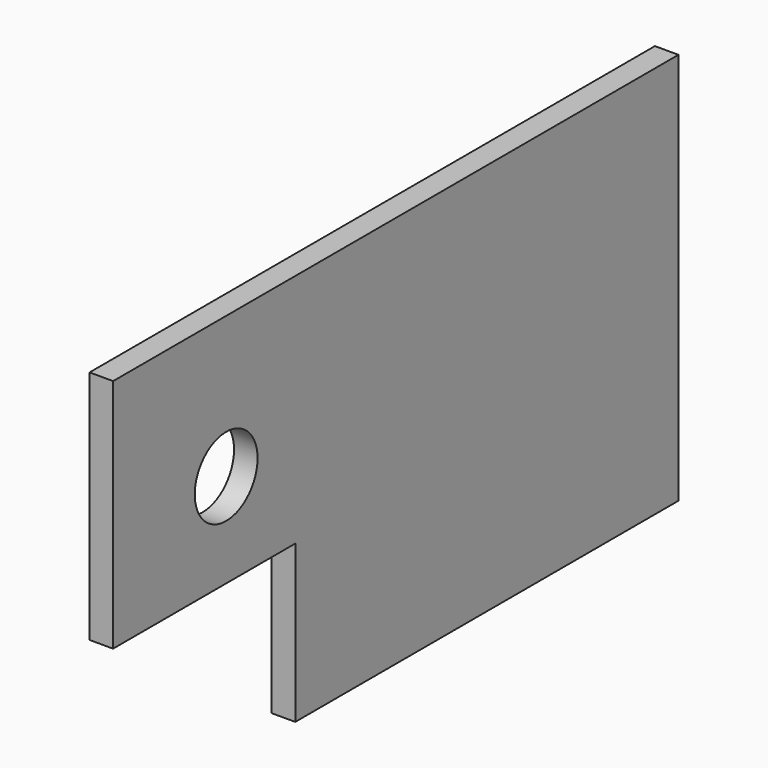
from build123d import *

# Parameters (mm, degrees)
F0_W     = 6
F0_H     = 100
F1_DEPTH = 180
F2_R     = 10
F2_W     = 58
F2_H     = 40
F3_DEPTH = 6.001


with BuildPart() as f1:
    # F0 (on Front) → F1 (new body)
    with BuildSketch(Plane.XZ):
        Rectangle(F0_W, F0_H)
    extrude(amount=-F1_DEPTH)

    # F2 (on face) → F3 (cut, through all)
    with BuildSketch(Plane.YZ.offset(3)):
        with Locations((36, 14)):
            Circle(F2_R)
        with Locations((29, -30)):
            Rectangle(F2_W, F2_H)
    extrude(amount=-F3_DEPTH, mode=Mode.SUBTRACT)


solid = f1.part
